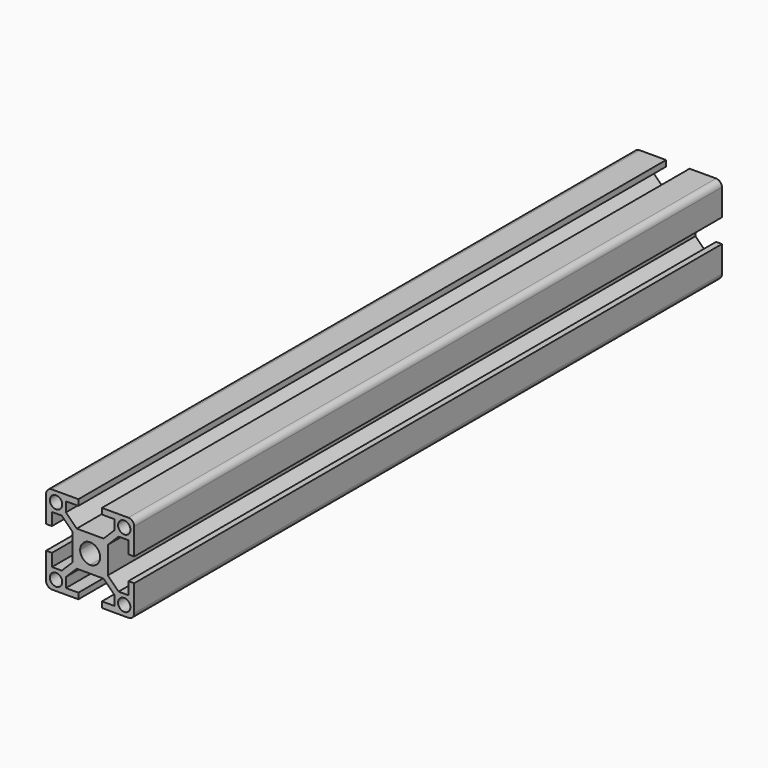
from build123d import *

# Parameters (mm, degrees)
F0_R     = 2.1
F1_DEPTH = 250


with BuildPart() as f1:
    # F0 (on Front) → F1 (new body)
    with BuildSketch(Plane.XZ):
        with BuildLine():
            Line((4.585786, 6), (0, 6))
            Line((0, 6), (-4.585786, 6))
            Line((-4.585786, 6), (-8.25, 9.664214))
            Line((-8.25, 9.664214), (-8.25, 13))
            Line((-8.25, 13), (-4, 13))
            Line((-4, 13), (-4, 15))
            Line((-4, 15), (-13, 15))
            ThreePointArc((-13, 15), (-14.414214, 14.414214), (-15, 13))
            Line((-15, 13), (-15, 4))
            Line((-15, 4), (-13, 4))
            Line((-13, 4), (-13, 8.25))
            Line((-13, 8.25), (-9.664214, 8.25))
            Line((-9.664214, 8.25), (-6, 4.585786))
            Line((-6, 4.585786), (-6, 0))
            Line((-6, 0), (-6, -4.585786))
            Line((-6, -4.585786), (-9.664214, -8.25))
            Line((-9.664214, -8.25), (-13, -8.25))
            Line((-13, -8.25), (-13, -4))
            Line((-13, -4), (-15, -4))
            Line((-15, -4), (-15, -13))
            ThreePointArc((-15, -13), (-14.414214, -14.414214), (-13, -15))
            Line((-13, -15), (-4, -15))
            Line((-4, -15), (-4, -13))
            Line((-4, -13), (-8.25, -13))
            Line((-8.25, -13), (-8.25, -9.664214))
            Line((-8.25, -9.664214), (-4.585786, -6))
            Line((-4.585786, -6), (0, -6))
            Line((0, -6), (4.585786, -6))
            Line((4.585786, -6), (8.25, -9.664214))
            Line((8.25, -9.664214), (8.25, -13))
            Line((8.25, -13), (4, -13))
            Line((4, -13), (4, -15))
            Line((4, -15), (13, -15))
            ThreePointArc((13, -15), (14.414214, -14.414214), (15, -13))
            Line((15, -13), (15, -4))
            Line((15, -4), (13, -4))
            Line((13, -4), (13, -8.25))
            Line((13, -8.25), (9.664214, -8.25))
            Line((9.664214, -8.25), (6, -4.585786))
            Line((6, -4.585786), (6, 0))
            Line((6, 0), (6, 4.585786))
            Line((6, 4.585786), (9.664214, 8.25))
            Line((9.664214, 8.25), (13, 8.25))
            Line((13, 8.25), (13, 4))
            Line((13, 4), (15, 4))
            Line((15, 4), (15, 13))
            ThreePointArc((15, 13), (14.414214, 14.414214), (13, 15))
            Line((13, 15), (4, 15))
            Line((4, 15), (4, 13))
            Line((4, 13), (8.25, 13))
            Line((8.25, 13), (8.25, 9.664214))
            Line((8.25, 9.664214), (4.585786, 6))
        make_face()
        with Locations((-11.6, -11.6)):
            Circle(F0_R, mode=Mode.SUBTRACT)
        with Locations((11.6, -11.6)):
            Circle(F0_R, mode=Mode.SUBTRACT)
        with Locations((-11.6, 11.6)):
            Circle(F0_R, mode=Mode.SUBTRACT)
        with BuildLine():
            ThreePointArc((-3.4, 0), (-2.404163, 2.404163), (0, 3.4))
            ThreePointArc((0, 3.4), (2.404163, 2.404163), (3.4, 0))
            ThreePointArc((3.4, 0), (2.404163, -2.404163), (0, -3.4))
            ThreePointArc((0, -3.4), (-2.404163, -2.404163), (-3.4, 0))
        make_face(mode=Mode.SUBTRACT)
        with Locations((11.6, 11.6)):
            Circle(F0_R, mode=Mode.SUBTRACT)
    extrude(amount=F1_DEPTH)


solid = f1.part
